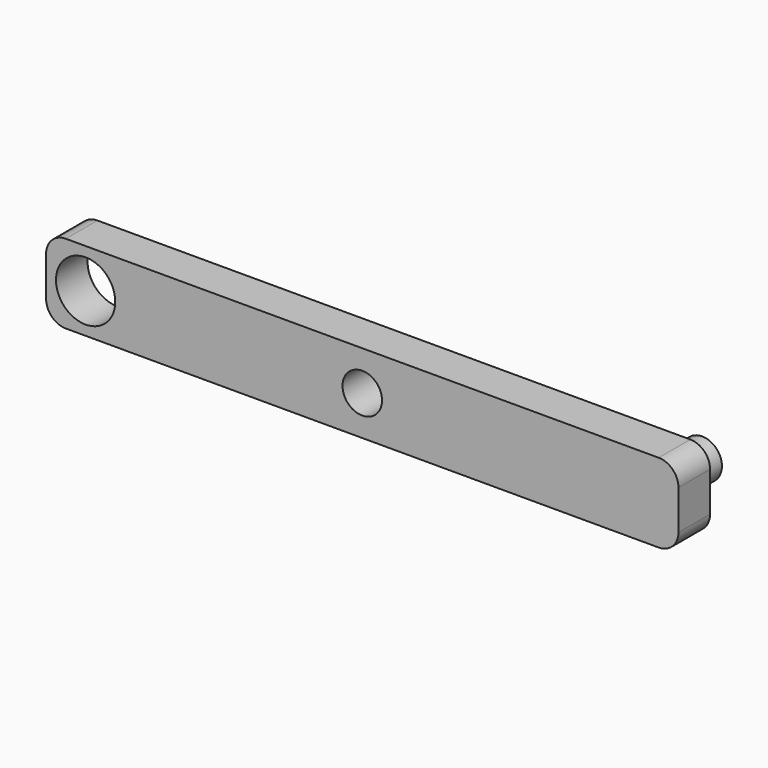
from build123d import *

# Parameters (mm, degrees)
F0_R     = 9.525
F0_R_2   = 6.35
F1_DEPTH = 6.35
F2_R     = 6.35
F3_DEPTH = 25.4


with BuildPart() as f1:
    # F0 (on Front) → F1 (new body, symmetric)
    with BuildSketch(Plane.XZ):
        with BuildLine():
            ThreePointArc((101.6, 6.35), (99.740128, 10.840128), (95.25, 12.7))
            Line((95.25, 12.7), (-95.25, 12.7))
            ThreePointArc((-95.25, 12.7), (-99.740128, 10.840128), (-101.6, 6.35))
            Line((-101.6, 6.35), (-101.6, -6.35))
            ThreePointArc((-101.6, -6.35), (-99.740128, -10.840128), (-95.25, -12.7))
            Line((-95.25, -12.7), (95.25, -12.7))
            ThreePointArc((95.25, -12.7), (99.740128, -10.840128), (101.6, -6.35))
            Line((101.6, -6.35), (101.6, 6.35))
        make_face()
        with Locations((-88.9, 0)):
            Circle(F0_R, mode=Mode.SUBTRACT)
        Circle(F0_R_2, mode=Mode.SUBTRACT)
    extrude(amount=F1_DEPTH, both=True)

    # F2 (on face) → F3 (join)
    with BuildSketch(Plane.XZ.offset(6.35)):
        with Locations((88.9, 0)):
            Circle(F2_R)
    extrude(amount=-F3_DEPTH)


solid = f1.part
